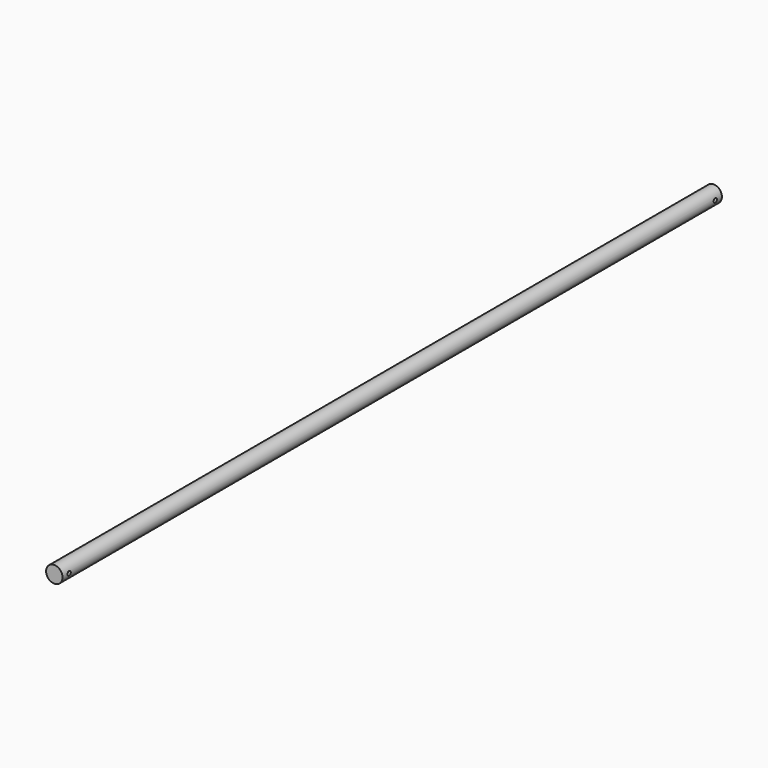
from build123d import *

# Parameters (mm, degrees)
F0_R     = 20
F1_DEPTH = 2000
F3_D     = 10
F4_D     = 10
F5_D     = 10
F6_D     = 10


with BuildPart() as f1:
    # F0 (on Front) → F1 (new body)
    with BuildSketch(Plane.XZ):
        Circle(F0_R)
    extrude(amount=F1_DEPTH)

    # F3 (through all)
    with Locations(Plane.YZ):
        with Locations((-1980, 0)):
            Hole(F3_D / 2)

    # F4 (through all)
    with Locations(Plane(origin=(0, 0, 0), x_dir=(0, 1, 0), z_dir=(-1, 0, 0))):
        with Locations((-1980, 0)):
            Hole(F4_D / 2)

    # F5 (through all)
    with Locations(Plane.YZ):
        with Locations((-20, 0)):
            Hole(F5_D / 2)

    # F6 (through all)
    with Locations(Plane(origin=(0, 0, 0), x_dir=(0, 1, 0), z_dir=(-1, 0, 0))):
        with Locations((-20, 0)):
            Hole(F6_D / 2)


solid = f1.part
